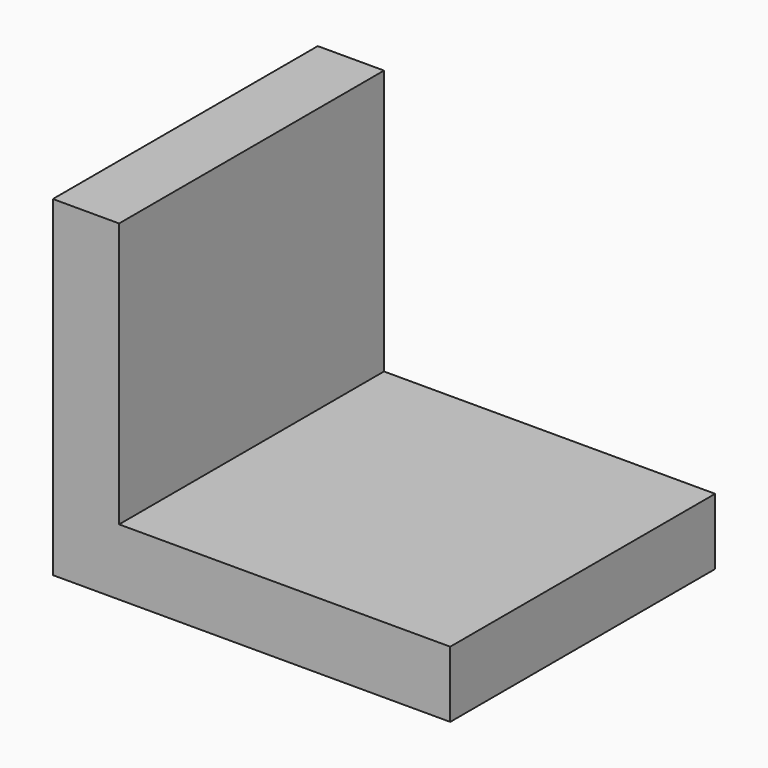
from build123d import *

# Parameters (mm, degrees)
F0_W     = 12.7
F0_H     = 12.7
F0_W_2   = 50.8
F1_DEPTH = 63.5


with BuildPart() as f1:
    # F0 (on Front) → F1 (new body)
    with BuildSketch(Plane.XZ):
        with Locations((69.85, -57.15)):
            Rectangle(F0_W, F0_H)
        with Locations((38.1, -57.15)):
            Rectangle(F0_W_2, F0_H)
        Polygon((12.7, 0), (0, 0), (0, -63.5), (12.7, -63.5), (12.7, -50.8), align=None)
    extrude(amount=-F1_DEPTH)


solid = f1.part
